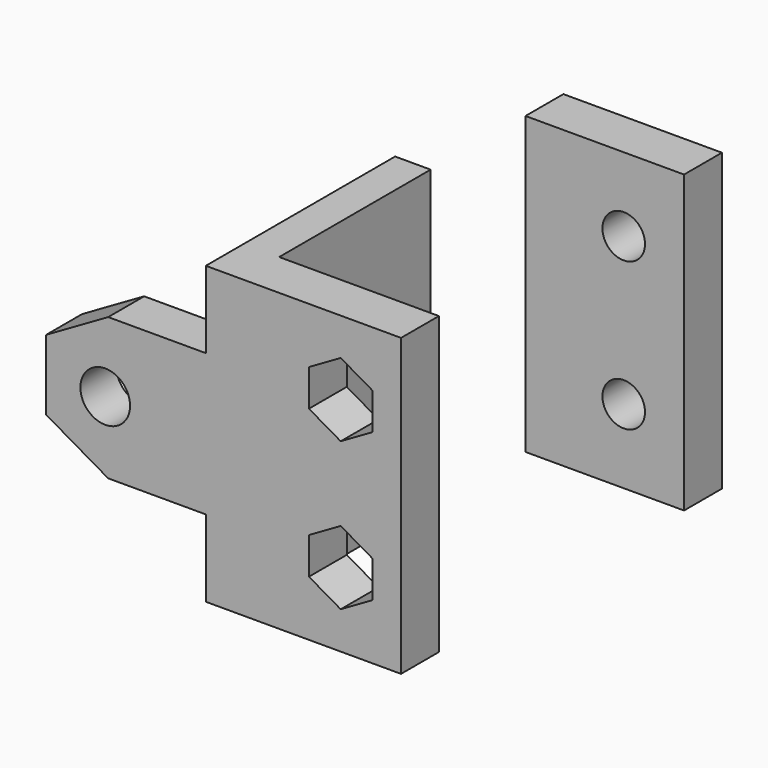
from build123d import *

# Parameters (mm, degrees)
PRISM018_DEPTH       = 13
PRISM019_DEPTH       = 13
PRISM020_DEPTH       = 6
PRISM020_ROLL_ANGLE  = 90
PRISM020_PITCH_ANGLE = 30.000006
CYLINDER016_R        = 1.8
CYLINDER016_DEPTH    = 6
PRISM021_DEPTH       = 6
PRISM021_ROLL_ANGLE  = 90
PRISM021_PITCH_ANGLE = 30.000006
CYLINDER017_R        = 1.8
CYLINDER017_DEPTH    = 6
CYLINDER015_R        = 2.1
CYLINDER015_DEPTH    = 13
CUBE025_W            = 3
CUBE025_H            = 20
CUBE025_DEPTH        = 25
CUBE026_W            = 15
CUBE026_H            = 4
CUBE026_DEPTH        = 25
CUBE027_W            = 13.4
CUBE027_H            = 4
CUBE027_DEPTH        = 25
CUBE024_W            = 15
CUBE024_H            = 3.8
CUBE024_DEPTH        = 12


with BuildPart() as prism018:
    # prism018 → prism018 (new body)
    with BuildSketch(Plane(origin=(40, 64, 72), x_dir=(1, 0, 0), z_dir=(0, -1, 0))):
        Polygon((5.25, 0), (-2.625, 4.546633), (-2.625, -4.546633), align=None)
    extrude(amount=PRISM018_DEPTH)


with BuildPart() as prism019:
    # prism019 → prism019 (new body)
    with BuildSketch(Plane(origin=(40, 64, 60), x_dir=(1, 0, 0), z_dir=(0, -1, 0))):
        Polygon((5.25, 0), (-2.625, 4.546633), (-2.625, -4.546633), align=None)
    extrude(amount=PRISM019_DEPTH)


with BuildPart() as prism020:
    # prism020 → prism020 (new body)
    with BuildSketch(Plane.XY):
        Polygon((3.1, 0), (1.55, 2.684679), (-1.55, 2.684679), (-3.1, 0), (-1.55, -2.684679), (1.55, -2.684679), align=None)
    extrude(amount=PRISM020_DEPTH)


with BuildPart() as prism020_1:
    # prism020 roll: moved
    add(prism020.part.rotate(Axis((0, 0, 0), (1, 0, 0)), PRISM020_ROLL_ANGLE))


with BuildPart() as prism020_2:
    # prism020 pitch: moved
    add(prism020_1.part.rotate(Axis((0, 0, 0), (0, 1, 0)), PRISM020_PITCH_ANGLE))


with BuildPart() as prism020_3:
    # prism020 placement: moved
    add(prism020_2.part.moved(Location((64.9, 60.499999, 72.25))))


with BuildPart() as cylinder016:
    # cylinder016 → cylinder016 (new body)
    with BuildSketch(Plane(origin=(64.9, 90.5, 72.25), x_dir=(1, 0, 0), z_dir=(0, -1, 0))):
        Circle(CYLINDER016_R)
    extrude(amount=CYLINDER016_DEPTH)


with BuildPart() as prism021:
    # prism021 → prism021 (new body)
    with BuildSketch(Plane.XY):
        Polygon((3.1, 0), (1.55, 2.684679), (-1.55, 2.684679), (-3.1, 0), (-1.55, -2.684679), (1.55, -2.684679), align=None)
    extrude(amount=PRISM021_DEPTH)


with BuildPart() as prism021_1:
    # prism021 roll: moved
    add(prism021.part.rotate(Axis((0, 0, 0), (1, 0, 0)), PRISM021_ROLL_ANGLE))


with BuildPart() as prism021_2:
    # prism021 pitch: moved
    add(prism021_1.part.rotate(Axis((0, 0, 0), (0, 1, 0)), PRISM021_PITCH_ANGLE))


with BuildPart() as prism021_3:
    # prism021 placement: moved
    add(prism021_2.part.moved(Location((64.9, 60.499999, 59.75))))


with BuildPart() as cylinder017:
    # cylinder017 → cylinder017 (new body)
    with BuildSketch(Plane(origin=(64.9, 90.5, 59.75), x_dir=(1, 0, 0), z_dir=(0, -1, 0))):
        Circle(CYLINDER017_R)
    extrude(amount=CYLINDER017_DEPTH)


with BuildPart() as group011:
    # cylinder015 → cylinder015 (new body)
    with BuildSketch(Plane(origin=(45, 64, 66), x_dir=(1, 0, 0), z_dir=(0, -1, 0))):
        Circle(CYLINDER015_R)
    extrude(amount=CYLINDER015_DEPTH)

    # Group011: union prism018, prism019, prism020, cylinder016, prism021, cylinder017
    add(prism018.part)
    add(prism019.part)
    add(prism020_3.part)
    add(cylinder016.part)
    add(prism021_3.part)
    add(cylinder017.part)


with BuildPart() as cube025:
    # cube025 → cube025 (new body)
    with BuildSketch(Plane(origin=(53.5, 55.6, 53.5), x_dir=(1, 0, 0), z_dir=(0, 0, 1))):
        with Locations((1.5, 10)):
            Rectangle(CUBE025_W, CUBE025_H)
    extrude(amount=CUBE025_DEPTH)


with BuildPart() as cube026:
    # cube026 → cube026 (new body)
    with BuildSketch(Plane(origin=(55, 55.6, 53.5), x_dir=(1, 0, 0), z_dir=(0, 0, 1))):
        with Locations((7.5, 2)):
            Rectangle(CUBE026_W, CUBE026_H)
    extrude(amount=CUBE026_DEPTH)


with BuildPart() as cube027:
    # cube027 → cube027 (new body)
    with BuildSketch(Plane(origin=(56.6, 85.5, 53.5), x_dir=(1, 0, 0), z_dir=(0, 0, 1))):
        with Locations((6.7, 2)):
            Rectangle(CUBE027_W, CUBE027_H)
    extrude(amount=CUBE027_DEPTH)


with BuildPart() as manipulator001:
    # cube024 → cube024 (new body)
    with BuildSketch(Plane(origin=(40, 55.6, 60), x_dir=(1, 0, 0), z_dir=(0, 0, 1))):
        with Locations((7.5, 1.9)):
            Rectangle(CUBE024_W, CUBE024_H)
    extrude(amount=CUBE024_DEPTH)

    # Group010: union cube025, cube026, cube027
    add(cube025.part)
    add(cube026.part)
    add(cube027.part)

    # difference006: cut Group011
    add(group011.part, mode=Mode.SUBTRACT)


solid = manipulator001.part
